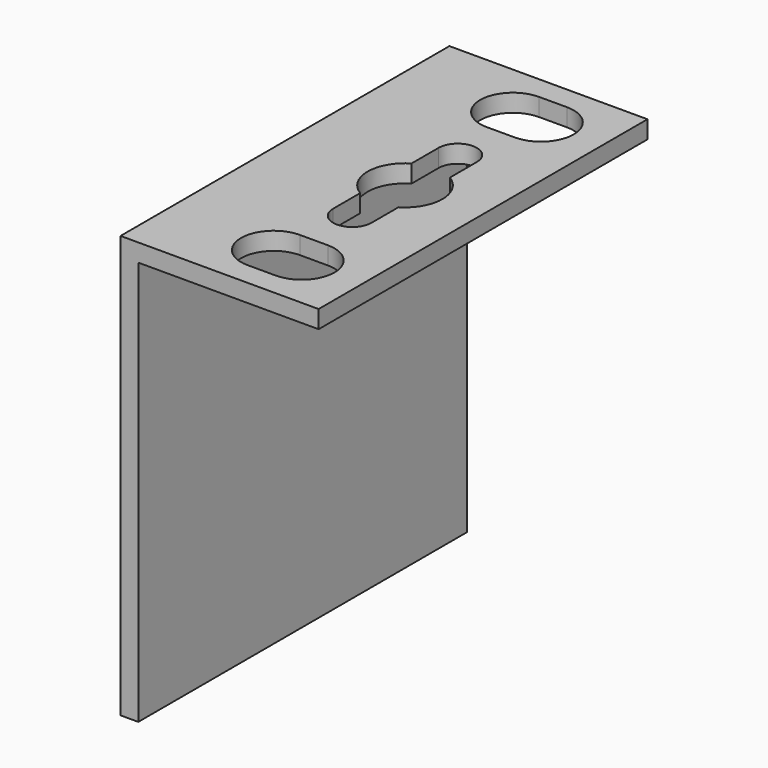
from build123d import *

# Parameters (mm, degrees)
F1_DEPTH = 22
F3_DEPTH = 45.181


with BuildPart() as f1:
    # F0 (on Front) → F1 (new body, symmetric)
    with BuildSketch(Plane.XZ):
        Polygon((0, 45.18), (0, 0), (1.9, 0), (1.9, 43.28), (21.2, 43.28), (21.2, 45.18), align=None)
    extrude(amount=F1_DEPTH, both=True)

    # F2 (on face) → F3 (cut, through all)
    with BuildSketch(Plane.XY.offset(45.18)):
        with BuildLine():
            ThreePointArc((11.6, -12.5), (8.1, -16), (11.6, -19.5))
            Line((11.6, -19.5), (14.6, -19.5))
            ThreePointArc((14.6, -19.5), (18.1, -16), (14.6, -12.5))
            Line((14.6, -12.5), (11.6, -12.5))
        make_face()
        with BuildLine():
            ThreePointArc((11.6, 19.5), (8.1, 16), (11.6, 12.5))
            Line((11.6, 12.5), (14.6, 12.5))
            ThreePointArc((14.6, 12.5), (18.1, 16), (14.6, 19.5))
            Line((14.6, 19.5), (11.6, 19.5))
        make_face()
        with BuildLine():
            ThreePointArc((14.9, 7.05), (12.85, 9.1), (10.8, 7.05))
            Line((10.8, 7.05), (10.8, 3.434749))
            ThreePointArc((10.8, 3.434749), (12.85, 4), (14.9, 3.434749))
            Line((14.9, 3.434749), (14.9, 7.05))
        make_face()
        with BuildLine():
            ThreePointArc((14.9, 3.434749), (12.85, 4), (10.8, 3.434749))
            ThreePointArc((10.8, 3.434749), (8.85, 0), (10.8, -3.434749))
            ThreePointArc((10.8, -3.434749), (12.85, -4), (14.9, -3.434749))
            ThreePointArc((14.9, -3.434749), (16.328505, -1.974842), (16.85, 0))
            ThreePointArc((16.85, 0), (16.328505, 1.974842), (14.9, 3.434749))
        make_face()
        with BuildLine():
            ThreePointArc((14.9, -3.434749), (12.85, -4), (10.8, -3.434749))
            Line((10.8, -3.434749), (10.8, -7.05))
            ThreePointArc((10.8, -7.05), (12.85, -9.1), (14.9, -7.05))
            Line((14.9, -7.05), (14.9, -3.434749))
        make_face()
    extrude(amount=-F3_DEPTH, mode=Mode.SUBTRACT)


solid = f1.part
